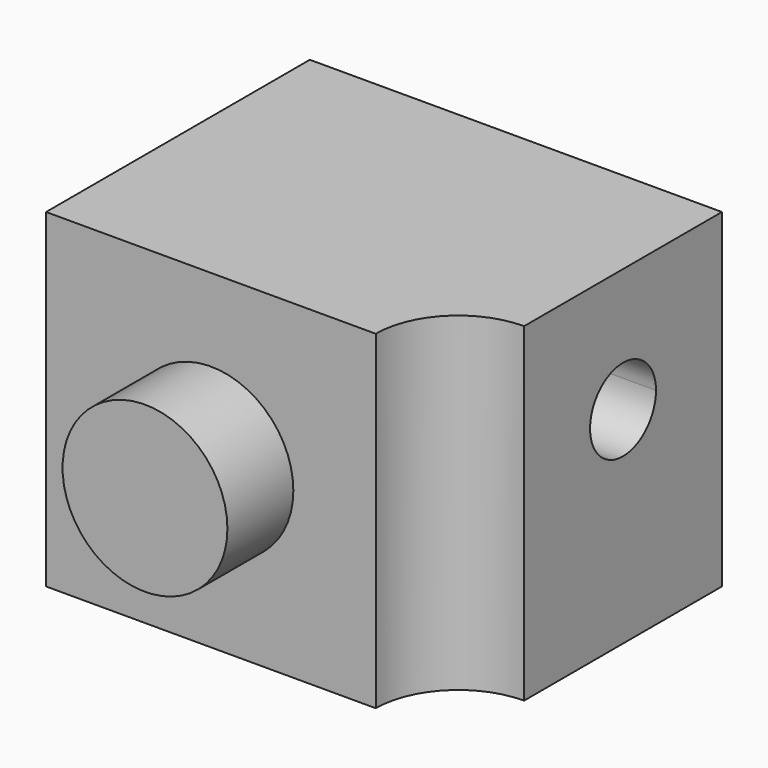
from build123d import *

# Parameters (mm, degrees)
F0_W     = 5
F0_H     = 4
F1_DEPTH = 4
F4_R     = 1
F5_DEPTH = 25
F6_R     = 1
F7_DEPTH = 1
F9_DEPTH = 25


with BuildPart() as f1:
    # F0 (on Top) → F1 (new body)
    with BuildSketch(Plane.XY):
        with Locations((2.5, 2)):
            Rectangle(F0_W, F0_H)
    extrude(amount=F1_DEPTH)

    # F4 (on face) → F5 (cut)
    with BuildSketch(Plane.XY.offset(4)):
        with Locations((5, 0)):
            Circle(F4_R)
    extrude(amount=-F5_DEPTH, mode=Mode.SUBTRACT)

    # F6 (on face) → F7 (join)
    with BuildSketch(Plane.XZ):
        with Locations((2, 2)):
            Circle(F6_R)
    extrude(amount=F7_DEPTH)

    # F8 (on face) → F9 (cut)
    with BuildSketch(Plane.YZ.offset(5)):
        with BuildLine():
            ThreePointArc((3, 2.5), (2.96194, 2.691342), (2.853553, 2.853553))
            Line((2.853553, 2.853553), (2.146447, 2.146447))
            ThreePointArc((2.146447, 2.146447), (2.691342, 2.03806), (3, 2.5))
        make_face()
        with BuildLine():
            Line((2.146447, 2.146447), (2.853553, 2.853553))
            ThreePointArc((2.853553, 2.853553), (2.146447, 2.853553), (2.146447, 2.146447))
        make_face()
    extrude(amount=-F9_DEPTH, mode=Mode.SUBTRACT)


solid = f1.part
